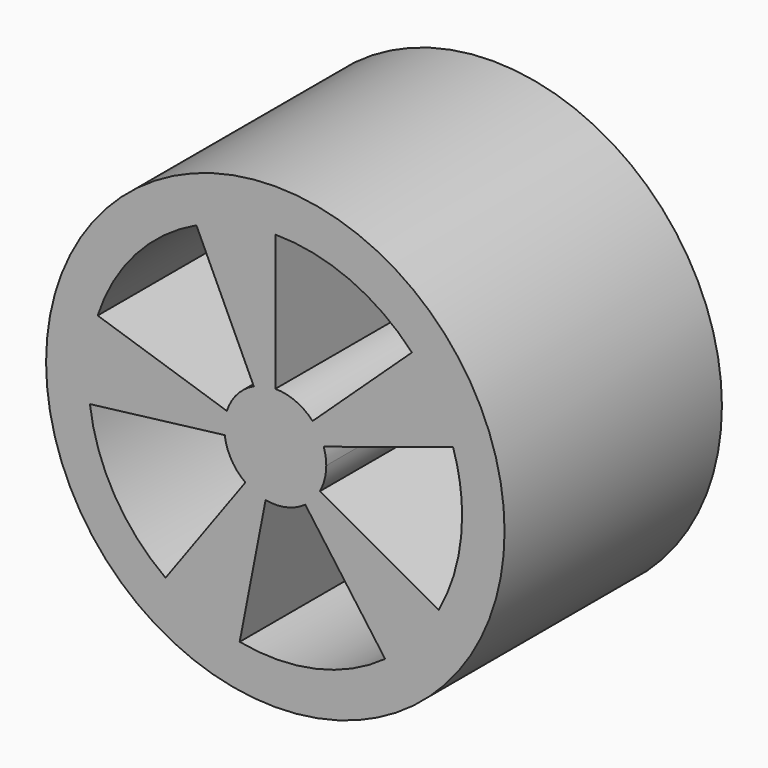
from build123d import *

# Parameters (mm, degrees)
F0_R     = 6.75
F1_DEPTH = 8
F3_DEPTH = 8


with BuildPart() as f1:
    # F0 (on Front) → F1 (new body)
    with BuildSketch(Plane.XZ):
        Circle(F0_R)
    extrude(amount=F1_DEPTH)

    # F2 (on Front) → F3 (cut)
    with BuildSketch(Plane.XZ):
        with BuildLine():
            ThreePointArc((1.426585, 0.463525), (1.481533, 0.234652), (1.5, 0))
            ThreePointArc((1.5, 0), (1.452221, -0.37557), (1.31193, -0.727214))
            Line((1.31193, -0.727214), (4.810408, -2.666453))
            ThreePointArc((4.810408, -2.666453), (5.324812, -1.37709), (5.5, 0))
            ThreePointArc((5.5, 0), (5.432286, 0.86039), (5.230811, 1.699593))
            Line((5.230811, 1.699593), (1.426585, 0.463525))
        make_face()
        with BuildLine():
            ThreePointArc((0, 1.5), (0.598124, 1.37559), (1.097031, 1.022998))
            Line((1.097031, 1.022998), (4.022445, 3.750991))
            ThreePointArc((4.022445, 3.750991), (2.19312, 5.04383), (0, 5.5))
            Line((0, 5.5), (0, 1.5))
        make_face()
        with BuildLine():
            ThreePointArc((-1.426585, 0.463525), (-1.123434, 0.99393), (-0.633927, 1.359462))
            Line((-0.633927, 1.359462), (-2.3244, 4.984693))
            ThreePointArc((-2.3244, 4.984693), (-4.119256, 3.64441), (-5.230811, 1.699593))
            Line((-5.230811, 1.699593), (-1.426585, 0.463525))
        make_face()
        with BuildLine():
            Line((3.232819, -4.449593), (0.881678, -1.213525))
            ThreePointArc((0.881678, -1.213525), (0.324659, -1.464444), (-0.286213, -1.472441))
            Line((-0.286213, -1.472441), (-1.049449, -5.39895))
            ThreePointArc((-1.049449, -5.39895), (1.190418, -5.369628), (3.232819, -4.449593))
        make_face()
        with BuildLine():
            Line((-3.232819, -4.449593), (-0.881678, -1.213525))
            ThreePointArc((-0.881678, -1.213525), (-1.292444, -0.761308), (-1.488819, -0.182804))
            Line((-1.488819, -0.182804), (-5.459004, -0.670281))
            ThreePointArc((-5.459004, -0.670281), (-4.73896, -2.791461), (-3.232819, -4.449593))
        make_face()
    extrude(amount=F3_DEPTH, mode=Mode.SUBTRACT)


solid = f1.part
